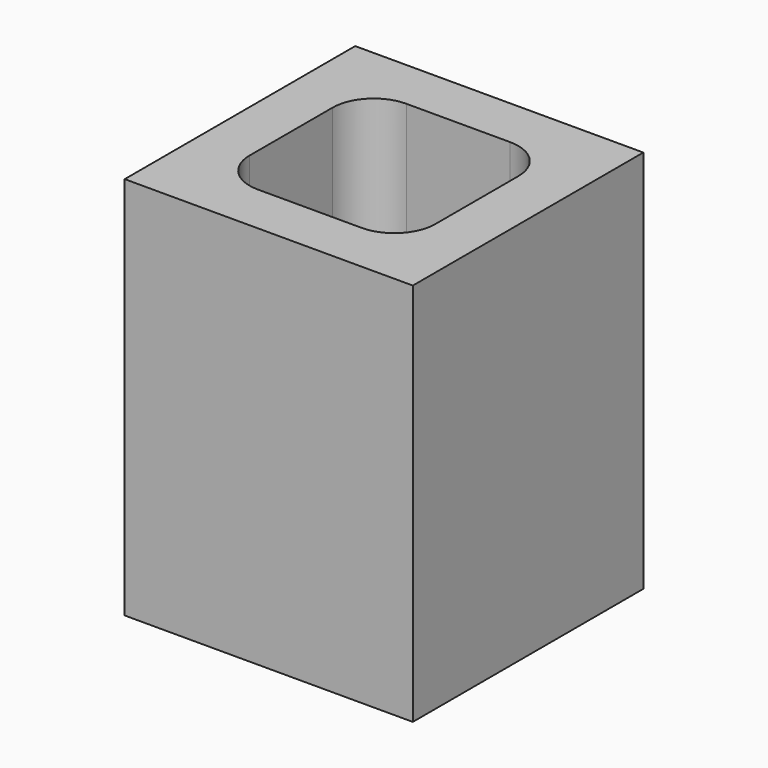
from build123d import *

# Parameters (mm, degrees)
F0_W     = 142.875
F0_H     = 142.875
F1_DEPTH = 95.25


with BuildPart() as f1:
    # F0 (on Top) → F1 (new body, symmetric)
    with BuildSketch(Plane.XY):
        Rectangle(F0_W, F0_H)
        with BuildLine():
            Line((-25.7175, 46.0375), (25.7175, 46.0375))
            ThreePointArc((25.7175, 46.0375), (40.08591, 40.08591), (46.0375, 25.7175))
            Line((46.0375, 25.7175), (46.0375, 0))
            Line((46.0375, 0), (46.0375, -25.7175))
            ThreePointArc((46.0375, -25.7175), (40.08591, -40.08591), (25.7175, -46.0375))
            Line((25.7175, -46.0375), (-25.7175, -46.0375))
            ThreePointArc((-25.7175, -46.0375), (-40.08591, -40.08591), (-46.0375, -25.7175))
            Line((-46.0375, -25.7175), (-46.0375, 0))
            Line((-46.0375, 0), (-46.0375, 25.7175))
            ThreePointArc((-46.0375, 25.7175), (-40.08591, 40.08591), (-25.7175, 46.0375))
        make_face(mode=Mode.SUBTRACT)
    extrude(amount=F1_DEPTH, both=True)


solid = f1.part
